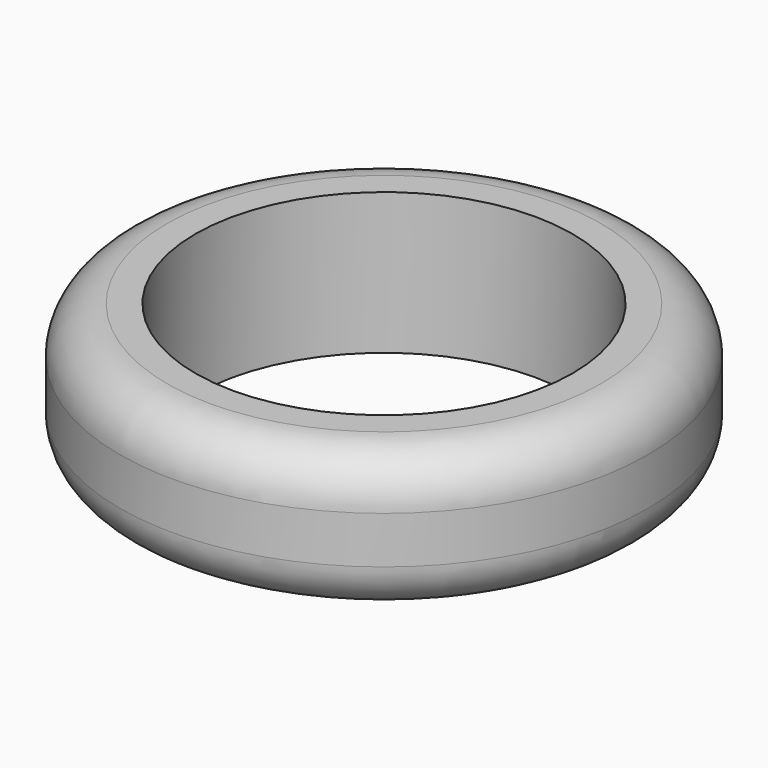
from build123d import *

# Parameters (mm, degrees)
F0_R     = 28
F0_R_2   = 20
F1_DEPTH = 7.5
F2_R     = 5


with BuildPart() as f1:
    # F0 (on Top) → F1 (new body, symmetric)
    with BuildSketch(Plane.XY):
        Circle(F0_R)
        Circle(F0_R_2, mode=Mode.SUBTRACT)
    extrude(amount=F1_DEPTH, both=True)

    # F2
    f2_edges = [f1.edges().sort_by_distance(p)[0] for p in [
        (-28, 0, 7.5),
        (-28, 0, -7.5),
    ]]
    fillet(f2_edges, radius=F2_R)


solid = f1.part
